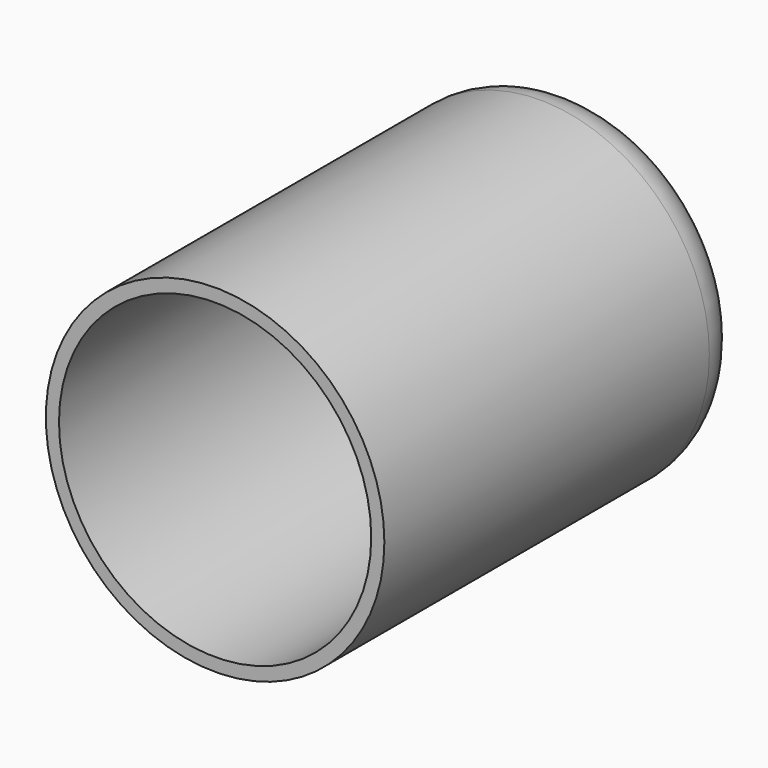
from build123d import *

# Parameters (mm, degrees)
F0_R     = 38.1
F0_R_2   = 34.063477528
F1_DEPTH = 101.6
F2_R     = 35.1450557453
F3_DEPTH = 95.25
F4_R     = 10.16
F5_R     = 2.6133627802
F6_DEPTH = 101.601


with BuildPart() as f1:
    # F0 (on Front) → F1 (new body)
    with BuildSketch(Plane.XZ):
        Circle(F0_R)
        Circle(F0_R_2, mode=Mode.SUBTRACT)
        Circle(F0_R_2)
    extrude(amount=F1_DEPTH)

    # F2 (on face) → F3 (cut)
    with BuildSketch(Plane.XZ.offset(101.6)):
        Circle(F2_R)
    extrude(amount=-F3_DEPTH, mode=Mode.SUBTRACT)

    # F4
    f4_edges = [f1.edges().sort_by_distance(p)[0] for p in [
        (-38.1, 0, 0),
    ]]
    fillet(f4_edges, radius=F4_R)

    # F5 (on Front) → F6 (cut, through all)
    with BuildSketch(Plane.XZ):
        Circle(F5_R)
    extrude(amount=F6_DEPTH, mode=Mode.SUBTRACT)


solid = f1.part
